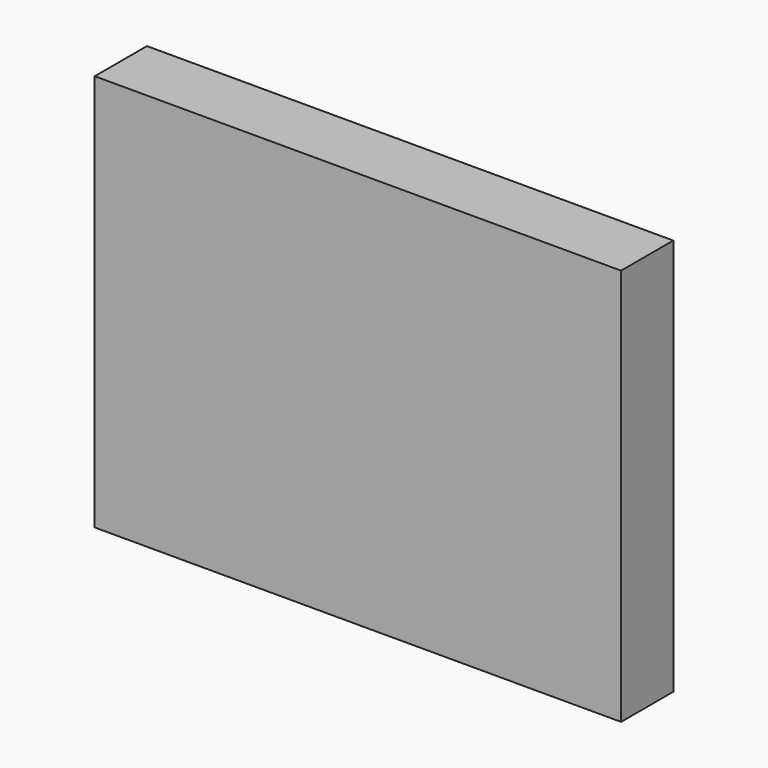
from build123d import *

# Parameters (mm, degrees)
F1_W     = 75.663261
F1_H     = 9.379447
F2_DEPTH = 57.111191


with BuildPart() as f2:
    # F1 (on face) → F2 (new body)
    with BuildSketch(Plane.XY):
        with Locations((13.298523, 44.133778)):
            Rectangle(F1_W, F1_H)
    extrude(amount=F2_DEPTH)


solid = f2.part
